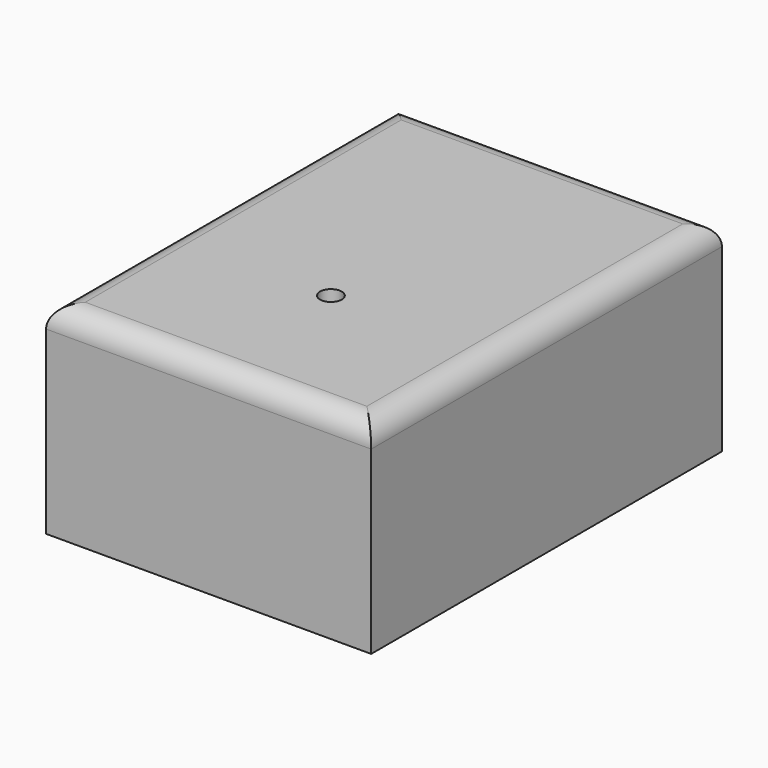
from build123d import *

# Parameters (mm, degrees)
F3_W           = 74.675485
F3_H           = 46.419974
F0_DEPTH       = 100.705625
F1_R           = 5
F2_D           = 5
F2_CBORE_D     = 10
F2_CBORE_DEPTH = 5


with BuildPart() as f0:
    # F3 (on Front) → F0 (new body)
    with BuildSketch(Plane.XZ):
        with Locations((37.337742, 23.209987)):
            Rectangle(F3_W, F3_H)
    extrude(amount=F0_DEPTH)

    # F1
    f1_edges = [f0.edges().sort_by_distance(p)[0] for p in [
        (74.675485, -50.352813, 46.419974),
        (37.337743, -100.705625, 46.419974),
        (37.337743, 0, 46.419974),
        (0, -50.352813, 46.419974),
    ]]
    fillet(f1_edges, radius=F1_R)

    # F2 (through all)
    with Locations(Plane(origin=(0, 0, 0), x_dir=(1, 0, 0), z_dir=(0, 0, -1))):
        with Locations((37.771776, 66.144571)):
            CounterBoreHole(F2_D / 2, F2_CBORE_D / 2, F2_CBORE_DEPTH)


solid = f0.part
